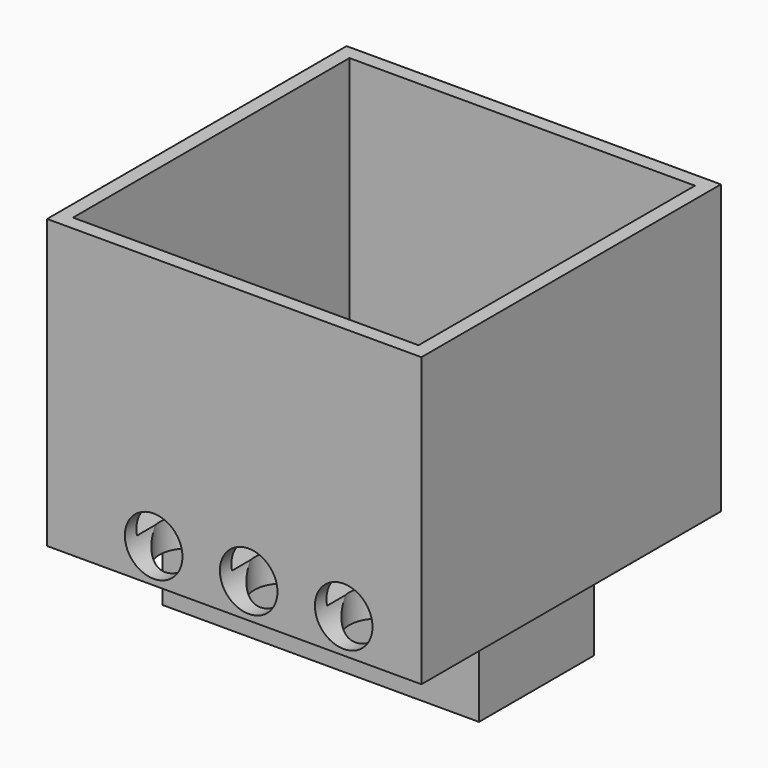
from build123d import *

# Parameters (mm, degrees)
CYLINDER007_R     = 1
CYLINDER007_DEPTH = 20
CYLINDER006_R     = 1
CYLINDER006_DEPTH = 20
CYLINDER008_R     = 1
CYLINDER008_DEPTH = 20
CYLINDER004_R     = 1
CYLINDER004_DEPTH = 20
CYLINDER003_R     = 1
CYLINDER003_DEPTH = 20
CYLINDER005_R     = 1
CYLINDER005_DEPTH = 20
CYLINDER001_R     = 1
CYLINDER001_DEPTH = 20
CYLINDER_R        = 1
CYLINDER_DEPTH    = 20
CYLINDER002_R     = 1
CYLINDER002_DEPTH = 20
BOX001_W          = 12
BOX001_H          = 12
BOX001_DEPTH      = 9
BOX_W             = 13
BOX_H             = 13
BOX_DEPTH         = 10
BOX002_W          = 11
BOX002_H          = 5
BOX002_DEPTH      = 3.5


with BuildPart() as cilindro007:
    # Cylinder007 → Cylinder007 (new body)
    with BuildSketch(Plane(origin=(3.7, 17, 1.2), x_dir=(1, 0, 0), z_dir=(0, -1, 0))):
        Circle(CYLINDER007_R)
    extrude(amount=CYLINDER007_DEPTH)


with BuildPart() as cilindro006:
    # Cylinder006 → Cylinder006 (new body)
    with BuildSketch(Plane(origin=(10.3, 17.7, 1.2), x_dir=(1, 0, 0), z_dir=(0, -1, 0))):
        Circle(CYLINDER006_R)
    extrude(amount=CYLINDER006_DEPTH)


with BuildPart() as cilindro008:
    # Cylinder008 → Cylinder008 (new body)
    with BuildSketch(Plane(origin=(7, 17.7, 1.2), x_dir=(1, 0, 0), z_dir=(0, -1, 0))):
        Circle(CYLINDER008_R)
    extrude(amount=CYLINDER008_DEPTH)


with BuildPart() as cilindro004:
    # Cylinder004 → Cylinder004 (new body)
    with BuildSketch(Plane(origin=(3.7, 1.5, 12), x_dir=(1, 0, 0), z_dir=(0, 0, -1))):
        Circle(CYLINDER004_R)
    extrude(amount=CYLINDER004_DEPTH)


with BuildPart() as cilindro003:
    # Cylinder003 → Cylinder003 (new body)
    with BuildSketch(Plane(origin=(10.3, 1.5, 12), x_dir=(1, 0, 0), z_dir=(0, 0, -1))):
        Circle(CYLINDER003_R)
    extrude(amount=CYLINDER003_DEPTH)


with BuildPart() as cilindro005:
    # Cylinder005 → Cylinder005 (new body)
    with BuildSketch(Plane(origin=(7, 1.5, 12), x_dir=(1, 0, 0), z_dir=(0, 0, -1))):
        Circle(CYLINDER005_R)
    extrude(amount=CYLINDER005_DEPTH)


with BuildPart() as cilindro001:
    # Cylinder001 → Cylinder001 (new body)
    with BuildSketch(Plane(origin=(7, 11.5, 12.2), x_dir=(1, 0, 0), z_dir=(0, 0, -1))):
        Circle(CYLINDER001_R)
    extrude(amount=CYLINDER001_DEPTH)


with BuildPart() as cilindro:
    # Cylinder → Cylinder (new body)
    with BuildSketch(Plane(origin=(3.7, 11.5, 12), x_dir=(1, 0, 0), z_dir=(0, 0, -1))):
        Circle(CYLINDER_R)
    extrude(amount=CYLINDER_DEPTH)


with BuildPart() as cilindro002:
    # Cylinder002 → Cylinder002 (new body)
    with BuildSketch(Plane(origin=(10.3, 11.5, 12), x_dir=(1, 0, 0), z_dir=(0, 0, -1))):
        Circle(CYLINDER002_R)
    extrude(amount=CYLINDER002_DEPTH)


with BuildPart() as cubo001:
    # Box001 → Box001 (new body)
    with BuildSketch(Plane(origin=(0.5, 0.5, 1), x_dir=(1, 0, 0), z_dir=(0, 0, 1))):
        with Locations((6, 6)):
            Rectangle(BOX001_W, BOX001_H)
    extrude(amount=BOX001_DEPTH)


with BuildPart() as cut009:
    # Box → Box (new body)
    with BuildSketch(Plane.XY):
        with Locations((6.5, 6.5)):
            Rectangle(BOX_W, BOX_H)
    extrude(amount=BOX_DEPTH)

    # Cut: cut Cubo001
    add(cubo001.part, mode=Mode.SUBTRACT)

    # Cut001: cut Cilindro002
    add(cilindro002.part, mode=Mode.SUBTRACT)

    # Cut002: cut Cilindro
    add(cilindro.part, mode=Mode.SUBTRACT)

    # Cut003: cut Cilindro001
    add(cilindro001.part, mode=Mode.SUBTRACT)

    # Cut004: cut Cilindro005
    add(cilindro005.part, mode=Mode.SUBTRACT)

    # Cut005: cut Cilindro003
    add(cilindro003.part, mode=Mode.SUBTRACT)

    # Cut006: cut Cilindro004
    add(cilindro004.part, mode=Mode.SUBTRACT)

    # Cut007: cut Cilindro008
    add(cilindro008.part, mode=Mode.SUBTRACT)

    # Cut008: cut Cilindro006
    add(cilindro006.part, mode=Mode.SUBTRACT)

    # Cut009: cut Cilindro007
    add(cilindro007.part, mode=Mode.SUBTRACT)


with BuildPart() as normal:
    # Box002 → Box002 (new body)
    with BuildSketch(Plane(origin=(1, 3.75, -3), x_dir=(1, 0, 0), z_dir=(0, 0, 1))):
        with Locations((5.5, 2.5)):
            Rectangle(BOX002_W, BOX002_H)
    extrude(amount=BOX002_DEPTH)

    # Fusion: union Cut009
    add(cut009.part)


with BuildPart() as normal_1:
    # Fusion placement: moved
    add(normal.part.moved(Location((50, 0, 0))))


solid = normal_1.part
